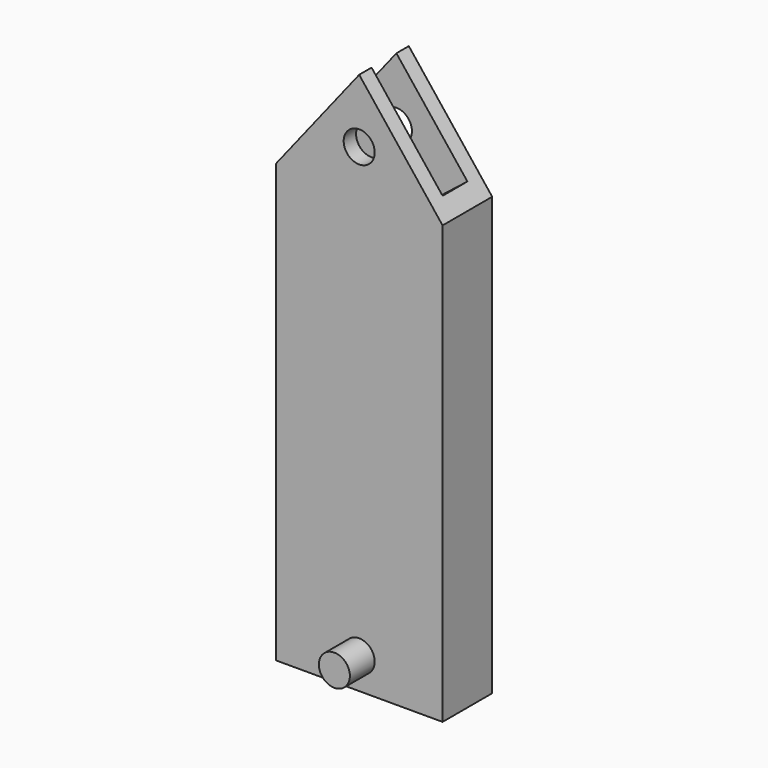
from build123d import *

# Parameters (mm, degrees)
F0_R     = 3.175
F1_DEPTH = 12.7
F2_W     = 6.35
F2_H     = 23.4397758459
F3_DEPTH = 25.4
F4_R     = 3.175
F6_DEPTH = 6.35
F5_R     = 3.175
F7_DEPTH = 6.35


with BuildPart() as f1:
    # F0 (on Front) → F1 (new body)
    with BuildSketch(Plane.XZ):
        Polygon((-11.0584168369, 42.5397964036), (-28.1292907894, 64.142785233), (-45.2001647418, 42.5397964036), (-45.2001647418, -46.9452900396), (-11.0584168369, -46.9452900396), align=None)
        with Locations((-28.1292907894, 51.1445705025)):
            Circle(F0_R, mode=Mode.SUBTRACT)
    extrude(amount=F1_DEPTH)

    # F2 (on face) → F3 (cut)
    with BuildSketch(Plane(origin=(13.886044542, 0, 10.9728759269), x_dir=(0, 1, 0), z_dir=(0.7846021358, 0, 0.6199995875))):
        with Locations((-6.35, 56.046827053)):
            Rectangle(F2_W, F2_H)
    extrude(amount=-F3_DEPTH, mode=Mode.SUBTRACT)

    # F4 (on face) → F6 (join)
    with BuildSketch(Plane(origin=(0, 0, 0), x_dir=(-1, 0, 0), z_dir=(0, 1, 0))):
        with Locations((28.1292907894, -40.5952900396)):
            Circle(F4_R)
    extrude(amount=F6_DEPTH)

    # F5 (on face) → F7 (join)
    with BuildSketch(Plane.XZ.offset(12.7)):
        with Locations((-28.1292907894, -40.5952900396)):
            Circle(F5_R)
    extrude(amount=F7_DEPTH)


solid = f1.part
